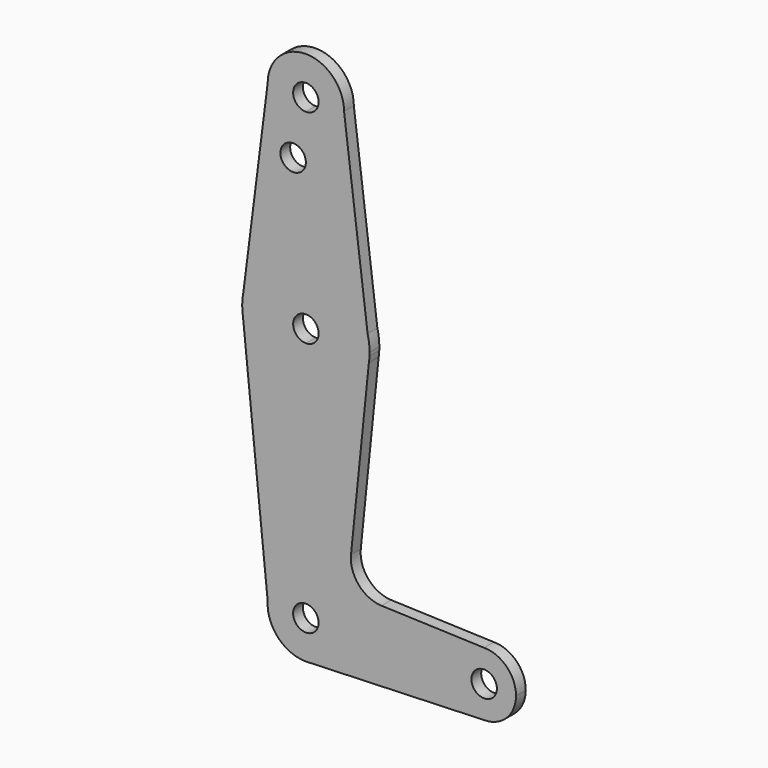
from build123d import *

# Parameters (mm, degrees)
F0_R     = 3.175
F1_DEPTH = 3.048


with BuildPart() as f1:
    # F0 (on Front) → F1 (new body)
    with BuildSketch(Plane.XZ):
        with BuildLine():
            Line((-15.5602610968, 66.5943204703), (-15.8402983502, 64.3807679405))
            ThreePointArc((-15.8402983502, 64.3807679405), (-15.8647503207, 63.5), (-15.8402983502, 62.6192320595))
            Line((-15.8402983502, 62.6192320595), (-15.6918650231, 61.1635028626))
            ThreePointArc((-15.6918650231, 61.1635028626), (-10.3600126683, 51.4802960168), (0, 47.6250033088))
            Line((0, 47.6250033088), (0, 60.3250165443))
            ThreePointArc((0, 60.3250165443), (-3.1647503207, 63.5), (0, 66.6749834557))
            Line((0, 66.6749834557), (0, 79.3749966912))
            ThreePointArc((0, 79.3749966912), (-10.0657835311, 75.7674031377), (-15.5602610968, 66.5943204703))
        make_face()
        with BuildLine():
            ThreePointArc((-15.5602610968, 66.5943204703), (-15.7392165915, 65.4924701213), (-15.8402983502, 64.3807679405))
            Line((-15.8402983502, 64.3807679405), (-15.5602610968, 66.5943204703))
        make_face()
        with BuildLine():
            Line((-15.6918650231, 61.1635028626), (-15.8402983502, 62.6192320595))
            ThreePointArc((-15.8402983502, 62.6192320595), (-15.782863321, 61.8896563229), (-15.6918650231, 61.1635028626))
        make_face()
        with BuildLine():
            Line((-9.525, 114.3), (-15.5602610968, 66.5943204703))
            ThreePointArc((-15.5602610968, 66.5943204703), (-10.0657835311, 75.7674031377), (0, 79.3749966912))
            Line((0, 79.3749966912), (0, 100.0252))
            Line((0, 100.0252), (0, 104.775))
            ThreePointArc((0, 104.775), (-6.7351920908, 107.5648079092), (-9.525, 114.3))
        make_face()
        with Locations((-3.175, 100.0252)):
            Circle(F0_R, mode=Mode.SUBTRACT)
        with BuildLine():
            ThreePointArc((0, 47.6250033088), (-10.3600126683, 51.4802960168), (-15.6918650231, 61.1635028626))
            Line((-15.6918650231, 61.1635028626), (-9.5099349982, 0.5355010086))
            ThreePointArc((-9.5099349982, 0.5355010086), (-6.5431253195, 6.9219315262), (0, 9.525))
            Line((0, 9.525), (0, 47.6250033088))
        make_face()
        with BuildLine():
            Line((0, 100.0252), (0, 79.3749966912))
            ThreePointArc((0, 79.3749966912), (9.7500209344, 76.0360472597), (15.3952343509, 67.4138052654))
            Line((15.3952343509, 67.4138052654), (9.525, 114.3))
            ThreePointArc((9.525, 114.3), (6.7351920908, 107.5648079092), (0, 104.775))
            Line((0, 104.775), (0, 100.0252))
        make_face()
        with BuildLine():
            ThreePointArc((15.3952343509, 67.4138052654), (9.7500209344, 76.0360472597), (0, 79.3749966912))
            Line((0, 79.3749966912), (0, 66.6749834557))
            ThreePointArc((0, 66.6749834557), (2.2516869713, 65.7486849192), (3.1852496793, 63.5))
            ThreePointArc((3.1852496793, 63.5), (2.2516869713, 61.2513150808), (0, 60.3250165443))
            Line((0, 60.3250165443), (0, 47.6250033088))
            ThreePointArc((0, 47.6250033088), (10.3688188104, 51.4702173521), (15.7108339854, 61.1532410758))
            Line((15.7108339854, 61.1532410758), (15.8607977088, 62.6192320595))
            ThreePointArc((15.8607977088, 62.6192320595), (15.8791355092, 63.0594463529), (15.8852496793, 63.5))
            Line((15.8852496793, 63.5), (15.3952343509, 67.4138052654))
        make_face()
        with BuildLine():
            ThreePointArc((9.525, 114.3), (0, 123.825), (-9.525, 114.3))
            ThreePointArc((-9.525, 114.3), (-6.7351920908, 107.5648079092), (0, 104.775))
            ThreePointArc((0, 104.775), (6.7351920908, 107.5648079092), (9.525, 114.3))
        make_face()
        with BuildLine():
            ThreePointArc((3.175, 114.3), (2.2450640303, 112.0549359697), (0, 111.125))
            ThreePointArc((0, 111.125), (-2.2450640303, 116.5450640303), (3.175, 114.3))
        make_face(mode=Mode.SUBTRACT)
        with BuildLine():
            ThreePointArc((15.7108339854, 61.1532410758), (10.3688188104, 51.4702173521), (0, 47.6250033088))
            Line((0, 47.6250033088), (0, 9.525))
            ThreePointArc((0, 9.525), (6.7351920908, 6.7351920908), (9.525, 0))
            Line((9.525, 0), (36.5125, 0))
            ThreePointArc((36.5125, 0), (38.8373399243, 5.6126600757), (44.45, 7.9375))
            Line((44.45, 7.9375), (18.8812183243, 8.8506707741))
            ThreePointArc((18.8812183243, 8.8506707741), (13.1700650984, 11.5740472316), (11.2560460973, 17.6048499777))
            Line((11.2560460973, 17.6048499777), (15.7108339854, 61.1532410758))
        make_face()
        with BuildLine():
            ThreePointArc((0, 9.525), (-6.5431253195, 6.9219315262), (-9.5099349982, 0.5355010086))
            ThreePointArc((-9.5099349982, 0.5355010086), (-6.9219315262, -6.5431253195), (0, -9.525))
            Line((0, -9.525), (0.6794904459, -9.5007324841))
            ThreePointArc((0.6794904459, -9.5007324841), (6.9712901065, -6.4905114784), (9.525, 0))
            Line((9.525, 0), (3.175, 0))
            ThreePointArc((3.175, 0), (-2.2450640303, -2.2450640303), (0, 3.175))
            Line((0, 3.175), (0, 9.525))
        make_face()
        with BuildLine():
            ThreePointArc((15.8852496793, 63.5), (15.7622694968, 65.4721806888), (15.3952343509, 67.4138052654))
            Line((15.3952343509, 67.4138052654), (15.8852496793, 63.5))
        make_face()
        with BuildLine():
            Line((15.8607977088, 62.6192320595), (15.7108339854, 61.1532410758))
            ThreePointArc((15.7108339854, 61.1532410758), (15.8028356077, 61.8844955292), (15.8607977088, 62.6192320595))
        make_face()
        with BuildLine():
            Line((0.6794904459, -9.5007324841), (0, -9.525))
            ThreePointArc((0, -9.525), (0.3399618281, -9.5189311877), (0.6794904459, -9.5007324841))
        make_face()
        with BuildLine():
            Line((36.5125, 0), (9.525, 0))
            ThreePointArc((9.525, 0), (6.9712901065, -6.4905114784), (0.6794904459, -9.5007324841))
            Line((0.6794904459, -9.5007324841), (44.45, -7.9375))
            ThreePointArc((44.45, -7.9375), (38.8373399243, -5.6126600757), (36.5125, 0))
        make_face()
        with BuildLine():
            ThreePointArc((44.45, 7.9375), (38.8373399243, 5.6126600757), (36.5125, 0))
            ThreePointArc((36.5125, 0), (38.8373399243, -5.6126600757), (44.45, -7.9375))
            ThreePointArc((44.45, -7.9375), (50.0626600757, -5.6126600757), (52.3875, 0))
            ThreePointArc((52.3875, 0), (50.0626600757, 5.6126600757), (44.45, 7.9375))
        make_face()
        with BuildLine():
            ThreePointArc((47.625, 0), (44.45, -3.175), (41.275, 0))
            ThreePointArc((41.275, 0), (44.45, 3.175), (47.625, 0))
        make_face(mode=Mode.SUBTRACT)
        with BuildLine():
            ThreePointArc((9.525, 0), (6.7351920908, 6.7351920908), (0, 9.525))
            Line((0, 9.525), (0, 3.175))
            ThreePointArc((0, 3.175), (2.2450640303, 2.2450640303), (3.175, 0))
            Line((3.175, 0), (9.525, 0))
        make_face()
    extrude(amount=F1_DEPTH)


solid = f1.part
